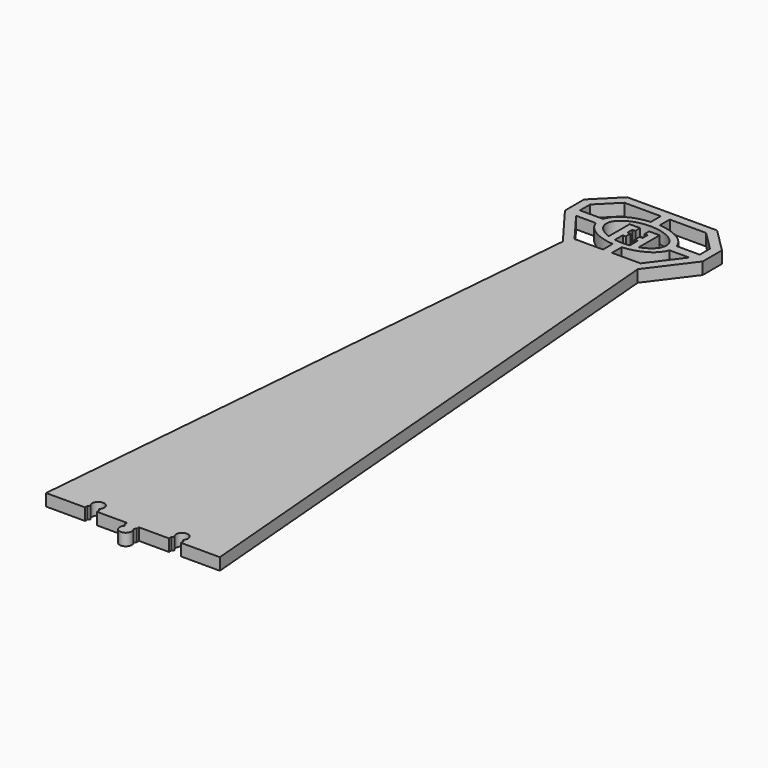
from build123d import *

# Parameters (mm, degrees)
F1_DEPTH = 4


with BuildPart() as f1:
    # F0 (on Top) → F1 (new body)
    with BuildSketch(Plane.XY):
        Polygon((22.6351957535, 142.8757803243), (14.6351957535, 150.8757803243), (-15.3648042465, 150.8757803243), (-23.3648042465, 142.8757803243), (-23.3648042465, 134.8757803243), (-12.8648042465, 120.8757803243), (12.1351957535, 120.8757803243), (22.6351957535, 134.8757803243), align=None)
        with BuildLine():
            Line((-1.8648042465, 123.8757803243), (-11.3648042465, 123.8757803243))
            Line((-11.3648042465, 123.8757803243), (-19.2398042465, 134.3757803243))
            Line((-19.2398042465, 134.3757803243), (-12.643111782, 134.3757803243))
            add(Edge.make_bspline(
                [(-12.643111782, 134.3757803243), (-10.9308544177, 128.6349298073), (-1.8648042465, 127.9335891908)],
                knots=[3.3302090398, 3.3302090398, 3.3302090398, 4.592099098, 4.592099098, 4.592099098], degree=2, weights=[1, 0.8074703886, 1]))
            Line((-1.8648042465, 127.9335891908), (-1.8648042465, 123.8757803243))
        make_face(mode=Mode.SUBTRACT)
        with BuildLine():
            Line((-20.3648042465, 137.3757803243), (-20.3648042465, 141.6331396372))
            Line((-20.3648042465, 141.6331396372), (-14.0124294414, 147.9855144423))
            Line((-14.0124294414, 147.9855144423), (-1.8648042465, 147.9855144423))
            Line((-1.8648042465, 147.9855144423), (-1.8648042465, 143.8179714577))
            add(Edge.make_bspline(
                [(-1.8648042465, 143.8179714577), (-10.9308544177, 143.1166308413), (-12.643111782, 137.3757803243)],
                knots=[1.6910862092, 1.6910862092, 1.6910862092, 2.9529762674, 2.9529762674, 2.9529762674], degree=2, weights=[1, 0.8074703886, 1]))
            Line((-12.643111782, 137.3757803243), (-20.3648042465, 137.3757803243))
        make_face(mode=Mode.SUBTRACT)
        with BuildLine():
            add(Edge.make_bspline(
                [(4.6351957535, 130.6796279016), (14.9560846159, 134.2548886794), (7.2956401847, 139.7325059824), (-0.3648042465, 145.2101232854), (-8.0252486777, 139.7325059824), (-15.6856931088, 134.2548886794), (-5.3648042465, 130.6796279016)],
                knots=[5.235987756, 5.235987756, 5.235987756, 6.981317008, 6.981317008, 8.72664626, 8.72664626, 10.471975512, 10.471975512, 10.471975512], degree=2, weights=[1, 0.6427876097, 1, 0.6427876097, 1, 0.6427876097, 1]))
            Line((4.6351957535, 130.6796279016), (4.6351957535, 137.3757803243))
            Line((4.6351957535, 137.3757803243), (4.6351957535, 139.3757803243))
            Line((4.6351957535, 139.3757803243), (1.1351957535, 139.3757803243))
            Line((1.1351957535, 139.3757803243), (1.1351957535, 137.3757803243))
            Line((1.1351957535, 137.3757803243), (2.1351957535, 137.3757803243))
            Line((2.1351957535, 137.3757803243), (2.1351957535, 135.3757803243))
            Line((2.1351957535, 135.3757803243), (1.1351957535, 135.3757803243))
            Line((1.1351957535, 135.3757803243), (1.1351957535, 133.3757803243))
            Line((1.1351957535, 133.3757803243), (2.1351957535, 133.3757803243))
            Line((2.1351957535, 133.3757803243), (2.1351957535, 130.066305305))
            add(Edge.make_bspline(
                [(-2.8648042465, 130.066305305), (-0.3648042465, 129.6790069704), (2.1351957535, 130.066305305)],
                knots=[4.4597087252, 4.4597087252, 4.4597087252, 4.9650692355, 4.9650692355, 4.9650692355], degree=2, weights=[1, 0.9682458366, 1]))
            Line((-2.8648042465, 130.066305305), (-2.8648042465, 133.3757803243))
            Line((-2.8648042465, 133.3757803243), (-1.8648042465, 133.3757803243))
            Line((-1.8648042465, 133.3757803243), (-1.8648042465, 135.3757803243))
            Line((-1.8648042465, 135.3757803243), (-2.8648042465, 135.3757803243))
            Line((-2.8648042465, 135.3757803243), (-2.8648042465, 137.3757803243))
            Line((-2.8648042465, 137.3757803243), (-1.8648042465, 137.3757803243))
            Line((-1.8648042465, 137.3757803243), (-1.8648042465, 139.3757803243))
            Line((-1.8648042465, 139.3757803243), (-5.3648042465, 139.3757803243))
            Line((-5.3648042465, 139.3757803243), (-5.3648042465, 137.3757803243))
            Line((-5.3648042465, 137.3757803243), (-5.3648042465, 130.6796279016))
        make_face(mode=Mode.SUBTRACT)
        with BuildLine():
            Line((1.1351957535, 123.8757803243), (1.1351957535, 127.9335891908))
            add(Edge.make_bspline(
                [(1.1351957535, 127.9335891908), (10.2012459248, 128.6349298073), (11.9135032891, 134.3757803243)],
                knots=[4.8326788628, 4.8326788628, 4.8326788628, 6.094568921, 6.094568921, 6.094568921], degree=2, weights=[1, 0.8074703886, 1]))
            Line((11.9135032891, 134.3757803243), (18.5101957535, 134.3757803243))
            Line((18.5101957535, 134.3757803243), (10.6351957535, 123.8757803243))
            Line((10.6351957535, 123.8757803243), (1.1351957535, 123.8757803243))
        make_face(mode=Mode.SUBTRACT)
        with BuildLine():
            Line((1.1351957535, 147.9855144423), (13.2828209484, 147.9855144423))
            Line((13.2828209484, 147.9855144423), (19.6351957535, 141.6331396372))
            Line((19.6351957535, 141.6331396372), (19.6351957535, 137.3757803243))
            Line((19.6351957535, 137.3757803243), (11.9135032891, 137.3757803243))
            add(Edge.make_bspline(
                [(11.9135032891, 137.3757803243), (10.2012459248, 143.1166308413), (1.1351957535, 143.8179714577)],
                knots=[0.1886163862, 0.1886163862, 0.1886163862, 1.4505064444, 1.4505064444, 1.4505064444], degree=2, weights=[1, 0.8074703886, 1]))
            Line((1.1351957535, 143.8179714577), (1.1351957535, 147.9855144423))
        make_face(mode=Mode.SUBTRACT)
        with BuildLine():
            Line((28.6351957535, -74.1242196757), (12.1351957535, 120.8757803243))
            Line((12.1351957535, 120.8757803243), (-12.8648042465, 120.8757803243))
            Line((-12.8648042465, 120.8757803243), (-29.3648042465, -74.1242196757))
            Line((-29.3648042465, -74.1242196757), (-16.3648042465, -74.1242196757))
            Line((-16.3648042465, -74.1242196757), (-16.3648042465, -73.1242196757))
            Line((-16.3648042465, -73.1242196757), (-15.7790178088, -72.5384332381))
            ThreePointArc((-15.7790178088, -72.5384332381), (-14.3648042465, -69.1242196757), (-12.9505906841, -72.5384332381))
            Line((-12.9505906841, -72.5384332381), (-12.3648042465, -73.1242196757))
            Line((-12.3648042465, -73.1242196757), (-12.3648042465, -74.1242196757))
            Line((-12.3648042465, -74.1242196757), (-2.3648042465, -74.1242196757))
            Line((-2.3648042465, -74.1242196757), (-2.3648042465, -75.1242196757))
            Line((-2.3648042465, -75.1242196757), (-1.7790178088, -75.7100061133))
            ThreePointArc((-1.7790178088, -75.7100061133), (-0.3648042465, -79.1242196757), (1.0494093159, -75.7100061133))
            Line((1.0494093159, -75.7100061133), (1.6351957535, -75.1242196757))
            Line((1.6351957535, -75.1242196757), (1.6351957535, -74.1242196757))
            Line((1.6351957535, -74.1242196757), (11.6351957535, -74.1242196757))
            Line((11.6351957535, -74.1242196757), (11.6351957535, -73.1242196757))
            Line((11.6351957535, -73.1242196757), (12.2209821912, -72.5384332381))
            ThreePointArc((12.2209821912, -72.5384332381), (13.6351957535, -69.1242196757), (15.0494093159, -72.5384332381))
            Line((15.0494093159, -72.5384332381), (15.6351957535, -73.1242196757))
            Line((15.6351957535, -73.1242196757), (15.6351957535, -74.1242196757))
            Line((15.6351957535, -74.1242196757), (28.6351957535, -74.1242196757))
        make_face()
    extrude(amount=F1_DEPTH)


solid = f1.part
